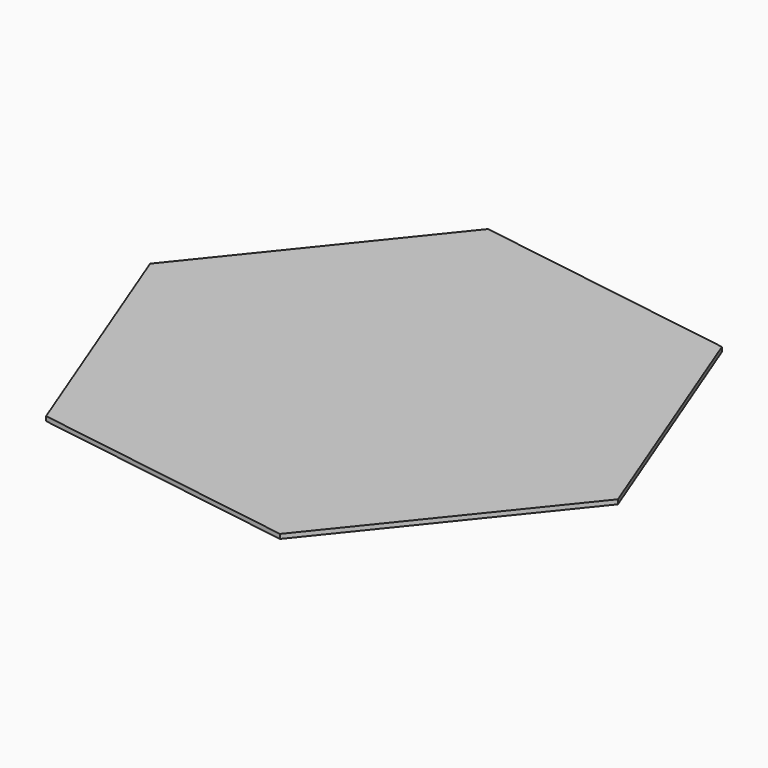
from build123d import *

# Parameters (mm, degrees)
F1_DEPTH = 25.4


with BuildPart() as f1:
    # F0 (on Top) → F1 (new body)
    with BuildSketch(Plane.XY):
        Polygon((1524, -236.740068), (967.022913, 1201.452681), (-556.977087, 1438.192749), align=None)
        Polygon((1524, -236.740068), (967.022913, 1201.452681), (-556.977087, 1438.192749), align=None)
        Polygon((556.977087, -1438.192749), (1524, -236.740068), (-556.977087, 1438.192749), (-1524, 236.740068), (-967.022913, -1201.452681), align=None)
        Polygon((556.977087, -1438.192749), (1524, -236.740068), (-556.977087, 1438.192749), (-1524, 236.740068), (-967.022913, -1201.452681), align=None)
    extrude(amount=F1_DEPTH)


solid = f1.part
